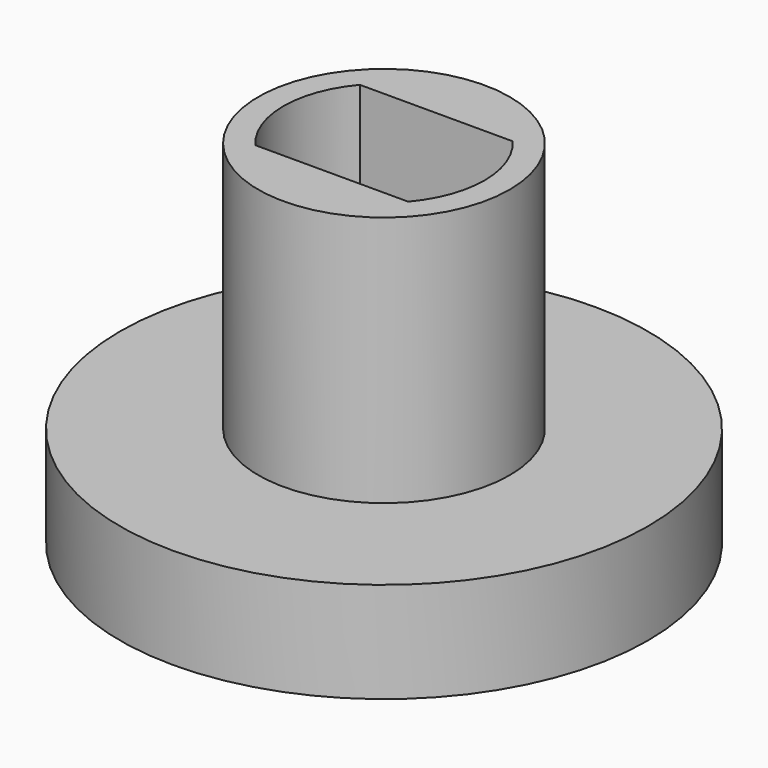
from build123d import *

# Parameters (mm, degrees)
F0_R     = 10.5
F0_R_2   = 5
F0_R_3   = 1.8
F1_DEPTH = 4
F2_DEPTH = 14


with BuildPart() as f1:
    # F0 (on Top) → F1 (new body)
    with BuildSketch(Plane.XY):
        Circle(F0_R)
        Circle(F0_R_2, mode=Mode.SUBTRACT)
        Circle(F0_R_2)
        with BuildLine():
            ThreePointArc((3.039737, 2.6), (4, 0), (3.039737, -2.6))
            Line((3.039737, -2.6), (-3.039737, -2.6))
            ThreePointArc((-3.039737, -2.6), (-4, 0), (-3.039737, 2.6))
            Line((-3.039737, 2.6), (3.039737, 2.6))
        make_face(mode=Mode.SUBTRACT)
        with BuildLine():
            Line((-3.039737, -2.6), (3.039737, -2.6))
            ThreePointArc((3.039737, -2.6), (4, 0), (3.039737, 2.6))
            Line((3.039737, 2.6), (-3.039737, 2.6))
            ThreePointArc((-3.039737, 2.6), (-4, 0), (-3.039737, -2.6))
        make_face()
        Circle(F0_R_3, mode=Mode.SUBTRACT)
    extrude(amount=F1_DEPTH)

    # F0 (on Top) → F2 (join)
    with BuildSketch(Plane.XY):
        Circle(F0_R_2)
        with BuildLine():
            ThreePointArc((3.039737, 2.6), (4, 0), (3.039737, -2.6))
            Line((3.039737, -2.6), (-3.039737, -2.6))
            ThreePointArc((-3.039737, -2.6), (-4, 0), (-3.039737, 2.6))
            Line((-3.039737, 2.6), (3.039737, 2.6))
        make_face(mode=Mode.SUBTRACT)
    extrude(amount=F2_DEPTH)


solid = f1.part
